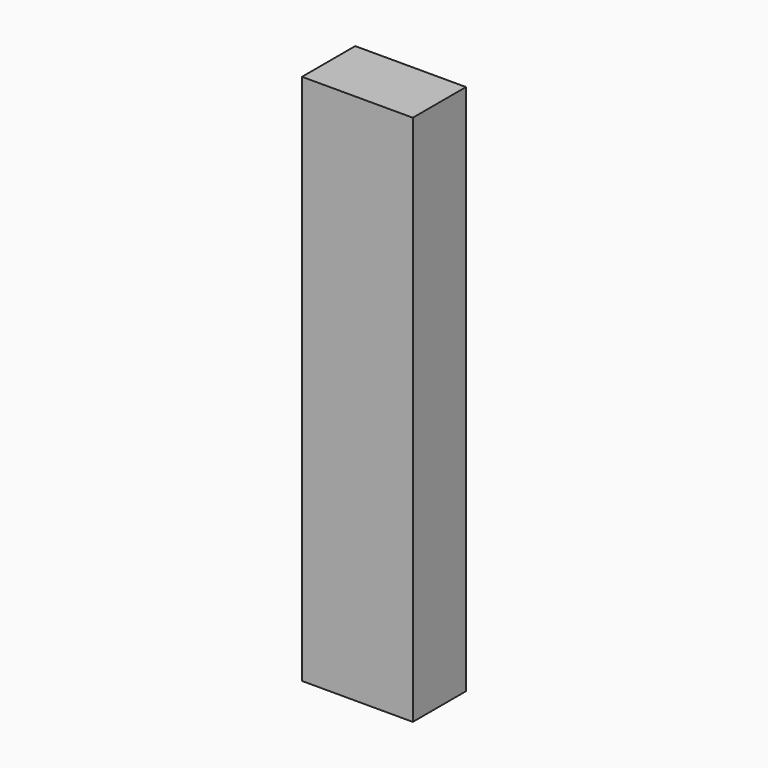
from build123d import *

# Parameters (mm, degrees)
F0_R     = 2.5
F1_DEPTH = 114.3
F2_D     = 4.2
F2_DEPTH = 20
F2_TIP   = 1.2618073


with BuildPart() as f1:
    # F0 (on Top) → F1 (new body)
    with BuildSketch(Plane.XY):
        Polygon((23.8125, 14.2875), (11.90625, 14.2875), (0, 14.2875), (0, 0), (11.90625, 0), (23.8125, 0), align=None)
        with Locations((5.953125, 7.14375)):
            Circle(F0_R, mode=Mode.SUBTRACT)
        with Locations((17.859375, 7.14375)):
            Circle(F0_R, mode=Mode.SUBTRACT)
        with Locations((5.953125, 7.14375)):
            Circle(F0_R)
        with Locations((17.859375, 7.14375)):
            Circle(F0_R)
    extrude(amount=F1_DEPTH)

    # F2
    with Locations(Plane(origin=(0, 0, 0), x_dir=(1, 0, 0), z_dir=(0, 0, -1))):
        with Locations((17.859375, -7.14375), (5.953125, -7.14375)):
            Hole(F2_D / 2, depth=F2_DEPTH)
            with Locations((0, 0, -(F2_DEPTH + F2_TIP / 2))):  # 118° drill point
                Cone(0, F2_D / 2, F2_TIP, mode=Mode.SUBTRACT)


solid = f1.part
